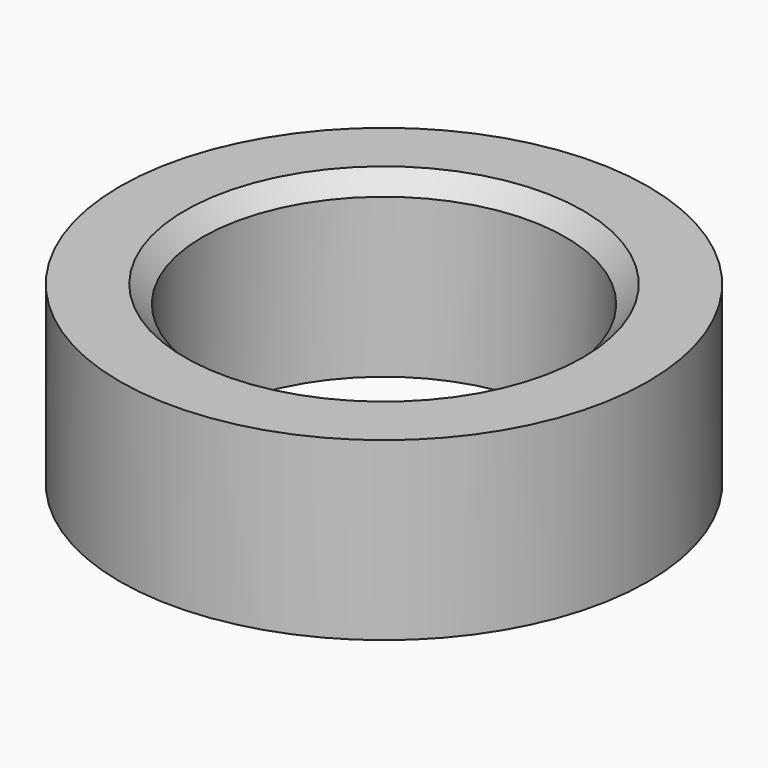
from build123d import *

# Parameters (mm, degrees)
SKETCH_R     = 7.5
SKETCH_R_2   = 5.15
PAD_DEPTH    = 5
CHAMFER_SIZE = 0.5


with BuildPart() as part:
    # Sketch → Pad (new body)
    with BuildSketch(Plane.XY):
        Circle(SKETCH_R)
        Circle(SKETCH_R_2, mode=Mode.SUBTRACT)
    extrude(amount=PAD_DEPTH)

    # Chamfer
    chamfer_edges = [part.edges().sort_by_distance(p)[0] for p in [
        (-5.15, 0, 5),
    ]]
    chamfer(chamfer_edges, length=CHAMFER_SIZE)


solid = part.part
